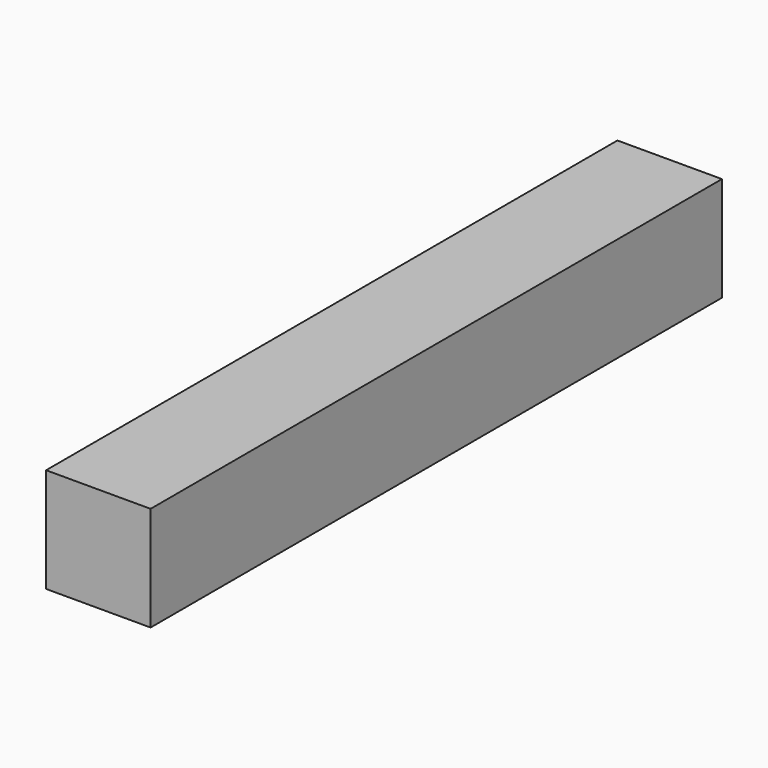
from build123d import *

# Parameters (mm, degrees)
SKETCH_W  = 260.35
SKETCH_H  = 38.1
PAD_DEPTH = 38.1


with BuildPart() as part:
    # Sketch → Pad (new body)
    with BuildSketch(Plane.YZ):
        with Locations((3.175, 0)):
            Rectangle(SKETCH_W, SKETCH_H)
    extrude(amount=PAD_DEPTH)


solid = part.part
